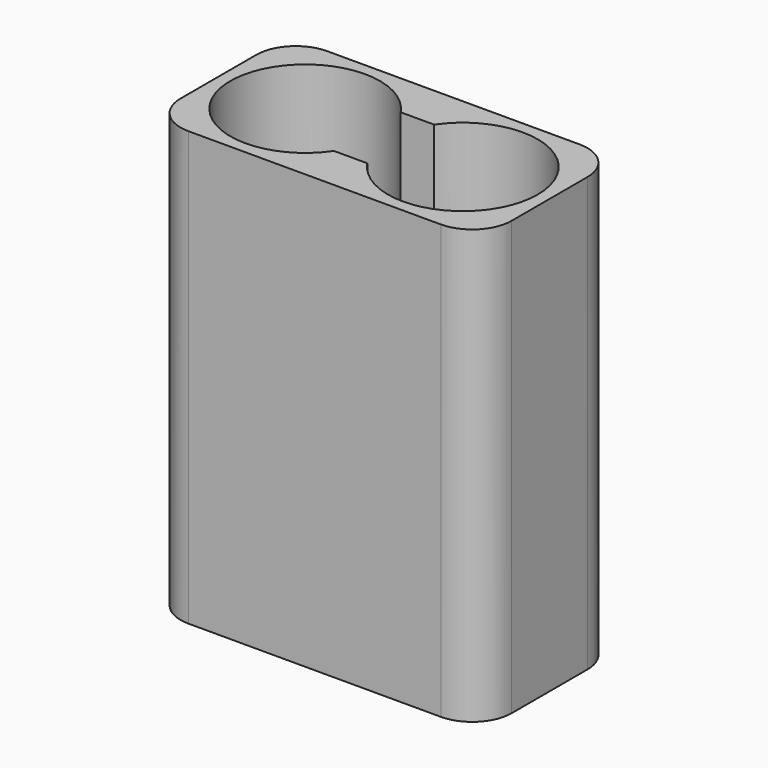
from build123d import *

# Parameters (mm, degrees)
F0_W     = 42
F0_H     = 22
F1_DEPTH = 55
F2_W     = 40.4
F2_H     = 20.4
F3_DEPTH = 2
F4_R     = 5


with BuildPart() as f1:
    # F0 (on Top) → F1 (new body)
    with BuildSketch(Plane.XY):
        Rectangle(F0_W, F0_H)
        with BuildLine():
            ThreePointArc((-2.120368, -5.306732), (-19.5, 0), (-2.120368, 5.306732))
            Line((-2.120368, 5.306732), (2.120368, 5.306732))
            ThreePointArc((2.120368, 5.306732), (12.774302, 9.085882), (19.5, 0))
            ThreePointArc((19.5, 0), (12.774302, -9.085882), (2.120368, -5.306732))
            Line((2.120368, -5.306732), (-2.120368, -5.306732))
        make_face(mode=Mode.SUBTRACT)
    extrude(amount=F1_DEPTH)

    # F2 (on face) → F3 (cut)
    with BuildSketch(Plane(origin=(0, 0, 0), x_dir=(1, 0, 0), z_dir=(0, 0, -1))):
        Rectangle(F2_W, F2_H)
    extrude(amount=-F3_DEPTH, mode=Mode.SUBTRACT)

    # F4
    f4_edges = [f1.edges().sort_by_distance(p)[0] for p in [
        (-20.2, -10.2, 1),
        (20.2, -10.2, 1),
        (20.2, 10.2, 1),
        (-20.2, 10.2, 1),
        (21, -11, 27.5),
        (-21, -11, 27.5),
        (21, 11, 27.5),
        (-21, 11, 27.5),
    ]]
    fillet(f4_edges, radius=F4_R)


solid = f1.part
